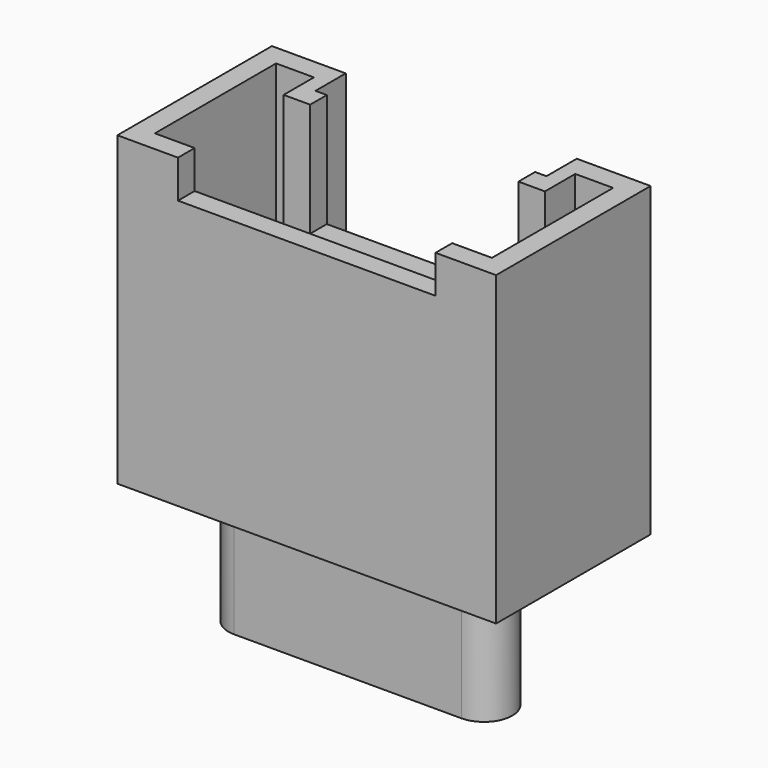
from build123d import *

# Parameters (mm, degrees)
PAD005_DEPTH            = 8.1
POCKET003_DEPTH         = 7
SKETCH010_W             = 6.8
SKETCH010_H             = 5
POCKET004_DEPTH         = 1
SKETCH011_W             = 5.5
SKETCH011_H             = 3
POCKET005_DEPTH         = 3
PAD006_DEPTH            = 4
PAD014_DEPTH            = 3.4
BODY005_PLACEMENT_ANGLE = 180


with BuildPart() as part:
    # Sketch008 → Pad005 (new body)
    with BuildSketch(Plane.XY):
        Polygon((-5, 0), (-3.05, 0), (-3.05, 1), (3.05, 1), (3.05, 0), (5, 0), (5, 5.1), (-5, 5.1), align=None)
    extrude(amount=PAD005_DEPTH)

    # Sketch009 (on Face10 of Pad005) → Pocket003 (cut)
    with BuildSketch(Plane.XY.offset(8.1)):
        Polygon((-4.45, 0.55), (-3.45, 0.55), (-3.45, 1.55), (3.45, 1.55), (3.45, 0.55), (4.45, 0.55), (4.45, 4.55), (-4.45, 4.55), align=None)
    extrude(amount=-POCKET003_DEPTH, mode=Mode.SUBTRACT)

    # Sketch010 (on Face5 of Pocket003) → Pocket004 (cut)
    with BuildSketch(Plane.XY.offset(8.1)):
        with Locations((0, 5.5)):
            Rectangle(SKETCH010_W, SKETCH010_H)
    extrude(amount=-POCKET004_DEPTH, mode=Mode.SUBTRACT)

    # Sketch011 (on Face5 of Pocket004) → Pocket005 (cut)
    with BuildSketch(Plane.XY.offset(8.1)):
        with Locations((0, 1.5)):
            Rectangle(SKETCH011_W, SKETCH011_H)
    extrude(amount=-POCKET005_DEPTH, mode=Mode.SUBTRACT)

    # Sketch012 (on Face26 of Pocket005) → Pad006 (join)
    with BuildSketch(Plane.XY.offset(1.1)):
        with BuildLine():
            ThreePointArc((-3.4, 3.25), (-3.65, 3), (-3.4, 2.75))
            Line((-3.4, 2.75), (3.4, 2.75))
            ThreePointArc((3.4, 2.75), (3.65, 3), (3.4, 3.25))
            Line((-3.4, 3.25), (3.4, 3.25))
        make_face()
    extrude(amount=PAD006_DEPTH)

    # Sketch020 (on Face4 of Pad006) → Pad014 (join)
    with BuildSketch(Plane(origin=(0, 0, 0), x_dir=(1, 0, 0), z_dir=(0, 0, -1))):
        with BuildLine():
            ThreePointArc((-3, -2.25), (-3.75, -3), (-3, -3.75))
            Line((-3, -3.75), (3, -3.75))
            ThreePointArc((3, -3.75), (3.75, -3), (3, -2.25))
            Line((-3, -2.25), (3, -2.25))
        make_face()
    extrude(amount=PAD014_DEPTH)


with BuildPart() as part_1:
    # Body005 placement: moved
    add(part.part.moved(Location((-7, 29, 0))).rotate(Axis((-7, 29, 0), (0, 0, 1)), BODY005_PLACEMENT_ANGLE))


with BuildPart() as part_2:
    # Body008 placement: moved
    add(part_1.part.moved(Location((14, 8, 0))))


solid = part_2.part
